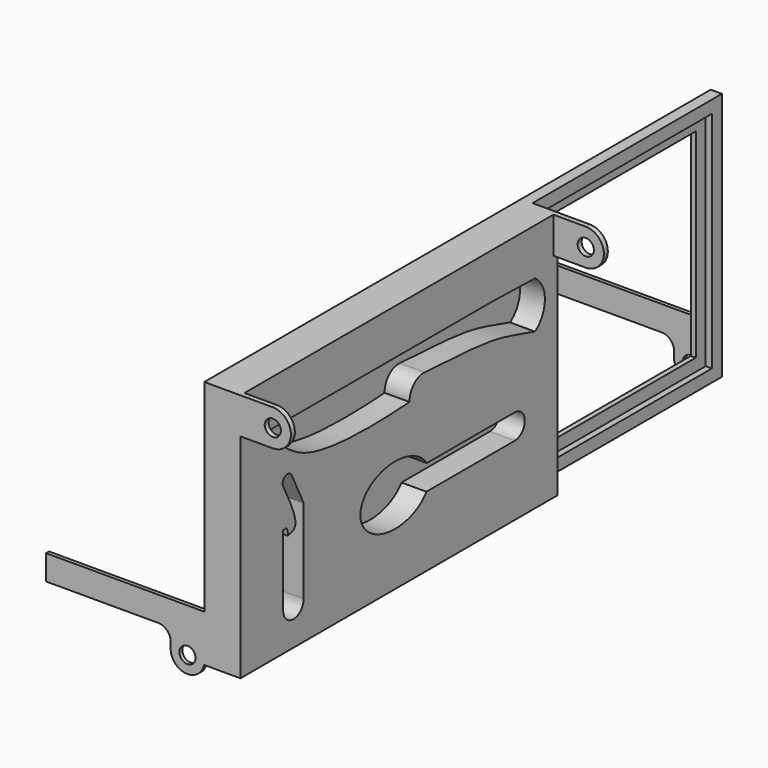
from build123d import *

# Parameters (mm, degrees)
F0_R      = 6.5
F1_DEPTH  = 254.05
F2_W      = 502.1
F2_H      = 100
F3_DEPTH  = 140
F4_R      = 10
F5_W      = 508.1
F5_H      = 200
F6_DEPTH  = 4
F7_W      = 150
F7_H      = 160
F8_DEPTH  = 25
F9_W      = 190
F9_H      = 200
F10_DEPTH = 5
F11_W     = 170
F11_H     = 180
F12_DEPTH = 25
F13_W     = 318.1
F13_H     = 200
F14_DEPTH = 25
F16_DEPTH = 20
F17_R     = 6.5
F18_DEPTH = 318
F19_W     = 52
F19_H     = 310
F20_DEPTH = 30


with BuildPart() as f1:
    # F0 (on Front) → F1 (new body, symmetric)
    with BuildSketch(Plane.XZ):
        with BuildLine():
            Line((-13.5, 15), (-13.5, 0))
            ThreePointArc((-13.5, 0), (-1.3568709871, -13.4316380656), (13.227244611, -2.7))
            Line((13.227244611, -2.7), (13.5, -2.7))
            Line((13.5, -2.7), (13.5, 15))
            Line((13.5, 15), (13.5, 35))
            Line((13.5, 35), (-113.5, 35))
            Line((-113.5, 35), (-113.5, 15))
            Line((-113.5, 15), (-13.5, 15))
        make_face()
        Circle(F0_R, mode=Mode.SUBTRACT)
    extrude(amount=F1_DEPTH, both=True)

    # F2 (on face) → F3 (cut)
    with BuildSketch(Plane.YZ.offset(13.5)):
        Rectangle(F2_W, F2_H)
    extrude(amount=-F3_DEPTH, mode=Mode.SUBTRACT)

    # F4
    f4_edges = [f1.edges().sort_by_distance(p)[0] for p in [
        (-13.5, -252.55, 15),
        (-13.5, 252.55, 15),
    ]]
    fillet(f4_edges, radius=F4_R)

    # F5 (on face) → F6 (join)
    with BuildSketch(Plane.YZ.offset(13.5)):
        with Locations((0, 97.3)):
            Rectangle(F5_W, F5_H)
    extrude(amount=F6_DEPTH)

    # F7 (on face) → F8 (cut)
    with BuildSketch(Plane.YZ.offset(17.5)):
        with Locations((159.05, 97.3)):
            Rectangle(F7_W, F7_H)
    extrude(amount=-F8_DEPTH, mode=Mode.SUBTRACT)

    # F9 (on face) → F10 (join)
    with BuildSketch(Plane.YZ.offset(17.5)):
        with Locations((159.05, 97.3)):
            Rectangle(F9_W, F9_H)
    extrude(amount=F10_DEPTH)

    # F11 (on face) → F12 (cut)
    with BuildSketch(Plane.YZ.offset(17.5)):
        with Locations((159.05, 97.3)):
            Rectangle(F11_W, F11_H)
    extrude(amount=F12_DEPTH, mode=Mode.SUBTRACT)

    # F13 (on face) → F14 (join)
    with BuildSketch(Plane.YZ.offset(17.5)):
        with Locations((-95, 97.3)):
            Rectangle(F13_W, F13_H)
    extrude(amount=F14_DEPTH)

    # F15 (on face) → F16 (cut)
    with BuildSketch(Plane.YZ.offset(42.5)):
        with BuildLine():
            Line((-42.7234955132, 160.8355042394), (-234.0602389828, 160.8355042394))
            add(Edge.make_bspline(
                [(-234.0602389828, 160.8355042394), (-217.1074327426, 151.3089947091), (-196.7785844767, 119.4842501759), (-119.2925410931, 121.4843631106), (-84.3255399594, 123.5550247597)],
                knots=[0, 0, 0, 0, 0.4134970992, 1, 1, 1, 1], degree=3))
            ThreePointArc((-84.3255399594, 123.5550247597), (-80.0809052846, 134.4004465368), (-69.1307716391, 138.367141659))
            add(Edge.make_bspline(
                [(-69.1307716391, 138.367141659), (-47.0103981225, 137.0126396602), (1.6618247246, 135.6066305681), (26.4505103488, 126.2112086953), (41.4993381181, 122.1753671593)],
                knots=[0, 0, 0, 0, 0.5598213266, 1, 1, 1, 1], degree=3))
            ThreePointArc((41.4993381181, 122.1753671593), (51.4208114186, 140.9997574198), (41.4993381181, 159.8241476803))
            add(Edge.make_bspline(
                [(-42.7234955132, 160.8355042394), (-27.0416883232, 160.9222176304), (-1.4651588493, 161.1197494684), (29.1631212378, 160.1908804879), (41.4993381181, 159.8241476803)],
                knots=[0, 0, 0, 0, 0.5035967712, 1, 1, 1, 1], degree=3))
        make_face()
        with BuildLine():
            Line((21.5523498238, 73.3963885321), (-67.0575042699, 73.3963885321))
            add(Edge.make_bspline(
                [(-67.0575042699, 73.3963885321), (-85.0711185917, 100.9948365173), (-120.0462196172, 82.577282884), (-155.0213206427, 64.1597292506), (-120.7750741023, 45.1092301127), (-86.5288275619, 26.0587309749), (-67.4480830546, 53.317995912)],
                knots=[0.4207699255, 0.4207699255, 0.4207699255, 2.2257610437, 2.2257610437, 4.0307521619, 4.0307521619, 5.83574328, 5.83574328, 5.83574328], degree=2, weights=[1, 0.6196531961, 1, 0.6196531961, 1, 0.6196531961, 1]))
            Line((-67.4480830546, 53.317995912), (21.1617710391, 53.317995912))
            ThreePointArc((21.1617710391, 53.317995912), (31.2028666218, 63.1656647881), (21.5523498238, 73.3963885321))
        make_face()
        with BuildLine():
            ThreePointArc((-211.1607789993, 27.7673769742), (-200.8758932352, 17.4824912101), (-190.5910074711, 27.7673769742))
            Line((-190.5910074711, 27.7673769742), (-190.5910074711, 78.6157455295))
            Line((-190.5910074711, 78.6157455295), (-190.5910074711, 95.1955616474))
            Line((-190.5910074711, 95.1955616474), (-202.446475625, 119.7409853339))
            ThreePointArc((-202.446475625, 119.7409853339), (-208.6635845365, 122.1287897822), (-211.4351242781, 116.0729974508))
            add(Edge.make_bspline(
                [(-206.3090205193, 78.6157455295), (-203.2636096895, 79.3219361096), (-193.8499770894, 81.5048332746), (-204.3392460287, 102.1242097799), (-211.4351242781, 116.0729974508)],
                knots=[0, 0, 0, 0, 0.3235106955, 1, 1, 1, 1], degree=3))
            add(Edge.make_bspline(
                [(-211.1607789993, 84.4994708896), (-209.9125958931, 84.8049572899), (-206.9667390663, 85.5259406083), (-206.5494822717, 81.1421112915), (-206.3090205193, 78.6157455295)],
                knots=[0, 0, 0, 0, 0.4237080006, 1, 1, 1, 1], degree=3))
            Line((-211.1607789993, 84.4994708896), (-211.1607789993, 78.6157455295))
            Line((-211.1607789993, 78.6157455295), (-211.1607789993, 27.7673769742))
        make_face()
    extrude(amount=-F16_DEPTH, mode=Mode.SUBTRACT)

    # F17 (on face) → F18 (join)
    with BuildSketch(Plane.XZ.offset(254.05)):
        with BuildLine():
            Line((68.5, 197.3), (42.5, 197.3))
            Line((42.5, 197.3), (42.5, 168.3))
            Line((42.5, 168.3), (68.5, 168.3))
            ThreePointArc((68.5, 168.3), (83, 182.8), (68.5, 197.3))
        make_face()
        with Locations((68.5, 182.8)):
            Circle(F17_R, mode=Mode.SUBTRACT)
    extrude(amount=-F18_DEPTH)

    # F19 (on face) → F20 (cut)
    with BuildSketch(Plane.XY.offset(197.3)):
        with Locations((68.5, -95.05)):
            Rectangle(F19_W, F19_H)
    extrude(amount=-F20_DEPTH, mode=Mode.SUBTRACT)


solid = f1.part
